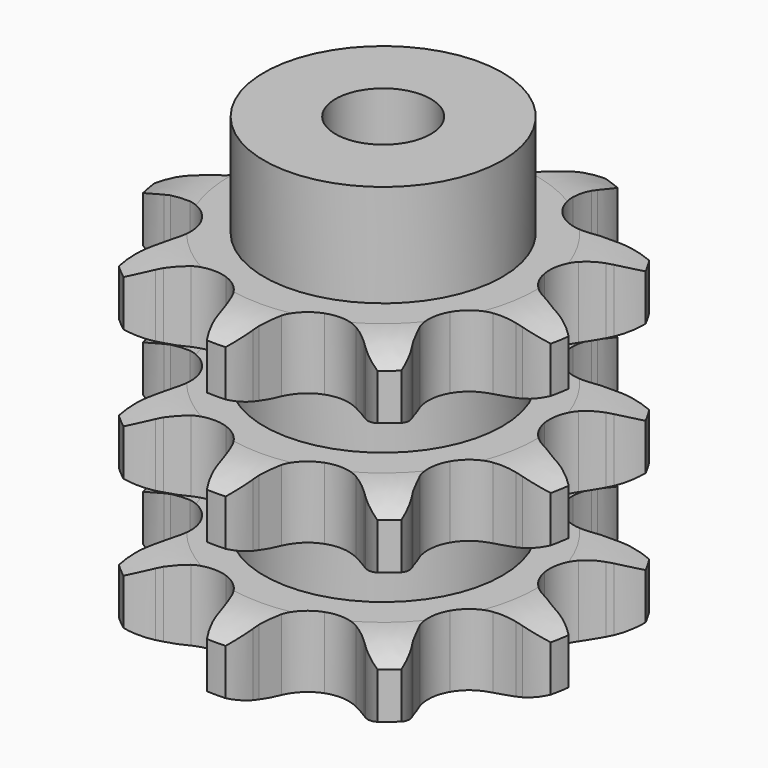
from build123d import *

# Parameters (mm, degrees)
PAD_DEPTH         = 42.1
SKETCH001_R       = 15
PAD001_DEPTH      = 55
SKETCH002_R       = 6
POCKET_DEPTH      = 0.001
POCKET_DEPTH_BACK = -55.001


with BuildPart() as part:
    # Sprocket → Pad (new body)
    with BuildSketch(Plane.XY):
        with BuildLine():
            ThreePointArc((-9.514802, 26.141704), (-7.412353, 24.683771), (-5.825038, 22.67721))
            Line((-5.825038, 22.67721), (-5.434483, 21.997709))
            ThreePointArc((-5.434483, 21.997709), (-4.695224, 20.852068), (-3.842323, 19.78832))
            ThreePointArc((-3.842323, 19.78832), (-2.105709, 18.514982), (0, 18.064197))
            ThreePointArc((0, 18.064197), (2.105709, 18.514982), (3.842323, 19.78832))
            ThreePointArc((3.842323, 19.78832), (4.695224, 20.852068), (5.434483, 21.997709))
            Line((5.434483, 21.997709), (5.825038, 22.67721))
            ThreePointArc((5.825038, 22.67721), (7.412353, 24.683771), (9.514802, 26.141704))
            ThreePointArc((9.514802, 26.141704), (10.18823, 23.673435), (10.114392, 21.116013))
            Line((10.114392, 21.116013), (9.976799, 20.344442))
            ThreePointArc((9.976799, 20.344442), (9.806701, 18.991642), (9.776296, 17.62853))
            ThreePointArc((9.776296, 17.62853), (10.288134, 15.536823), (11.611442, 13.837978))
            ThreePointArc((11.611442, 13.837978), (13.514268, 12.829775), (15.663077, 12.688935))
            Line((15.663077, 12.688935), (18.302911, 13.358005))
            ThreePointArc((18.302911, 13.358005), (18.6689, 13.498181), (19.038868, 13.627489))
            ThreePointArc((19.038868, 13.627489), (21.544615, 14.144297), (24.092324, 13.90971))
            ThreePointArc((24.092324, 13.90971), (23.021628, 11.586035), (21.321185, 9.674399))
            Line((21.321185, 9.674399), (20.719827, 9.171783))
            ThreePointArc((20.719827, 9.171783), (19.719961, 8.244816), (18.820478, 7.220156))
            ThreePointArc((18.820478, 7.220156), (17.868045, 5.288812), (17.789762, 3.136815))
            ThreePointArc((17.789762, 3.136815), (18.59935, 1.141374), (20.154903, -0.347744))
            Line((20.154903, -0.347744), (22.607203, -1.532059))
            ThreePointArc((22.607203, -1.532059), (22.97767, -1.659931), (23.3442, -1.798687))
            ThreePointArc((23.3442, -1.798687), (25.595911, -3.013451), (27.39678, -4.830792))
            ThreePointArc((27.39678, -4.830792), (25.08295, -5.922599), (22.551559, -6.293974))
            Line((22.551559, -6.293974), (21.767817, -6.292454))
            ThreePointArc((21.767817, -6.292454), (20.406032, -6.359851), (19.058349, -6.56661))
            ThreePointArc((19.058349, -6.56661), (17.087299, -7.433893), (15.644054, -9.032099))
            ThreePointArc((15.644054, -9.032099), (14.98159, -11.081089), (15.216026, -13.22171))
            Line((15.216026, -13.22171), (16.333334, -15.705255))
            ThreePointArc((16.333334, -15.705255), (16.534933, -16.041343), (16.726521, -16.383236))
            ThreePointArc((16.726521, -16.383236), (17.670596, -18.761172), (17.881978, -21.310912))
            ThreePointArc((17.881978, -21.310912), (15.407681, -20.659984), (13.229808, -19.317327))
            Line((13.229808, -19.317327), (12.630403, -18.812383))
            ThreePointArc((12.630403, -18.812383), (11.543894, -17.988673), (10.378607, -17.280786))
            ThreePointArc((10.378607, -17.280786), (8.311216, -16.678197), (6.178319, -16.974793))
            ThreePointArc((6.178319, -16.974793), (4.353777, -18.118587), (3.157401, -19.90909))
            Line((3.157401, -19.90909), (2.416916, -22.529788))
            ThreePointArc((2.416916, -22.529788), (2.355317, -22.916832), (2.282317, -23.301888))
            ThreePointArc((2.282317, -23.301888), (1.477013, -25.730332), (0, -27.81942))
            ThreePointArc((0, -27.81942), (-1.477013, -25.730332), (-2.282317, -23.301888))
            Line((-2.282317, -23.301888), (-2.416916, -22.529788))
            ThreePointArc((-2.416916, -22.529788), (-2.71976, -21.200395), (-3.157401, -19.90909))
            ThreePointArc((-3.157401, -19.90909), (-4.353777, -18.118587), (-6.178319, -16.974793))
            ThreePointArc((-6.178319, -16.974793), (-8.311216, -16.678197), (-10.378607, -17.280786))
            Line((-10.378607, -17.280786), (-12.630403, -18.812383))
            ThreePointArc((-12.630403, -18.812383), (-12.926378, -19.06928), (-13.229808, -19.317327))
            ThreePointArc((-13.229808, -19.317327), (-15.407681, -20.659984), (-17.881978, -21.310912))
            ThreePointArc((-17.881978, -21.310912), (-17.670596, -18.761172), (-16.726521, -16.383236))
            Line((-16.726521, -16.383236), (-16.333334, -15.705255))
            ThreePointArc((-16.333334, -15.705255), (-15.710809, -14.492217), (-15.216026, -13.22171))
            ThreePointArc((-15.216026, -13.22171), (-14.98159, -11.081089), (-15.644054, -9.032099))
            ThreePointArc((-15.644054, -9.032099), (-17.087299, -7.433893), (-19.058349, -6.56661))
            Line((-19.058349, -6.56661), (-21.767817, -6.292454))
            ThreePointArc((-21.767817, -6.292454), (-22.159677, -6.299001), (-22.551559, -6.293974))
            ThreePointArc((-22.551559, -6.293974), (-25.08295, -5.922599), (-27.39678, -4.830792))
            ThreePointArc((-27.39678, -4.830792), (-25.595911, -3.013451), (-23.3442, -1.798687))
            Line((-23.3442, -1.798687), (-22.607203, -1.532059))
            ThreePointArc((-22.607203, -1.532059), (-21.350595, -1.002969), (-20.154903, -0.347744))
            ThreePointArc((-20.154903, -0.347744), (-18.59935, 1.141374), (-17.789762, 3.136815))
            ThreePointArc((-17.789762, 3.136815), (-17.868045, 5.288812), (-18.820478, 7.220156))
            Line((-18.820478, 7.220156), (-20.719827, 9.171783))
            ThreePointArc((-20.719827, 9.171783), (-21.024217, 9.418651), (-21.321185, 9.674399))
            ThreePointArc((-21.321185, 9.674399), (-23.021628, 11.586035), (-24.092324, 13.90971))
            ThreePointArc((-24.092324, 13.90971), (-21.544615, 14.144297), (-19.038868, 13.627489))
            Line((-19.038868, 13.627489), (-18.302911, 13.358005))
            ThreePointArc((-18.302911, 13.358005), (-17.000201, 12.955579), (-15.663077, 12.688935))
            ThreePointArc((-15.663077, 12.688935), (-13.514268, 12.829775), (-11.611442, 13.837978))
            ThreePointArc((-11.611442, 13.837978), (-10.288134, 15.536823), (-9.776296, 17.62853))
            Line((-9.776296, 17.62853), (-9.976799, 20.344442))
            ThreePointArc((-9.976799, 20.344442), (-10.051292, 20.729212), (-10.114392, 21.116013))
            ThreePointArc((-10.114392, 21.116013), (-10.18823, 23.673435), (-9.514802, 26.141704))
        make_face()
    extrude(amount=PAD_DEPTH)

    # Sketch → Groove (revolve, cut)
    with BuildSketch(Plane.XZ):
        with BuildLine():
            ThreePointArc((19.325762, 0), (22.90347, 0.405129), (26.3, 1.6))
            Line((26.3, 1.6), (26.3, 7.4))
            ThreePointArc((26.3, 7.4), (22.90347, 8.594871), (19.325762, 9))
            Line((15, 9), (19.325762, 9))
            Line((15, 9), (15, 16.55))
            Line((15, 16.55), (19.325762, 16.55))
            ThreePointArc((19.325762, 16.55), (22.90347, 16.955129), (26.3, 18.15))
            Line((26.3, 23.95), (26.3, 18.15))
            ThreePointArc((26.3, 23.95), (22.90347, 25.144871), (19.325762, 25.55))
            Line((15, 25.55), (19.325762, 25.55))
            Line((15, 33.1), (15, 25.55))
            Line((19.325762, 33.1), (15, 33.1))
            ThreePointArc((19.325762, 33.1), (22.90347, 33.505129), (26.3, 34.7))
            Line((26.3, 34.7), (26.3, 40.5))
            ThreePointArc((26.3, 40.5), (22.90347, 41.694871), (19.325762, 42.1))
            Line((19.325762, 42.1), (36.3, 42.1))
            Line((36.3, 42.1), (36.3, 0))
            Line((19.325762, 0), (36.3, 0))
        make_face()
    revolve(axis=Axis((0, 0, 0), (0, 0, 1)), mode=Mode.SUBTRACT)

    # Sketch001 → Pad001 (join)
    with BuildSketch(Plane.XY):
        Circle(SKETCH001_R)
    extrude(amount=PAD001_DEPTH)

    # Sketch002 → Pocket (cut, two sides)
    with BuildSketch(Plane.XY) as pocket_sk:
        Circle(SKETCH002_R)
    extrude(amount=-POCKET_DEPTH, mode=Mode.SUBTRACT)
    extrude(pocket_sk.sketch, amount=-POCKET_DEPTH_BACK, mode=Mode.SUBTRACT)


solid = part.part
